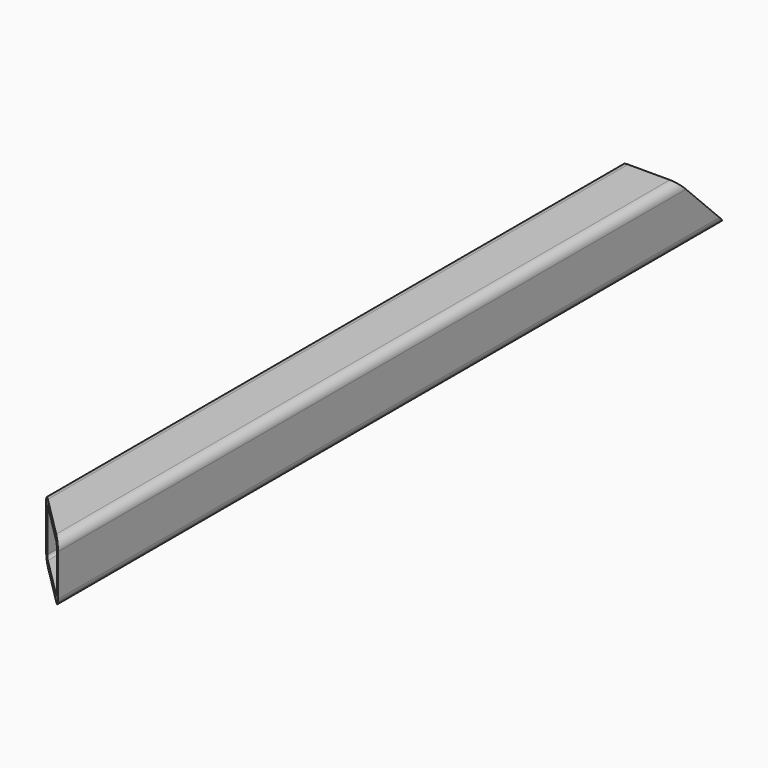
from build123d import *

# Parameters (mm, degrees)
F2_W     = 20
F2_H     = 20
F3_DEPTH = 140
F4_R     = 3
F5_T     = -2
F7_DEPTH = 20.001
F9_DEPTH = 25


with BuildPart() as f3:
    # F2 (on Front) → F3 (new body, symmetric)
    with BuildSketch(Plane.XZ):
        Rectangle(F2_W, F2_H)
    extrude(amount=F3_DEPTH, both=True)

    # F4
    f4_edges = [f3.edges().sort_by_distance(p)[0] for p in [
        (10, 0, 10),
        (-10, 0, 10),
        (10, 0, -10),
        (-10, 0, -10),
    ]]
    fillet(f4_edges, radius=F4_R)

    # F5
    f5_openings = [f3.faces().sort_by_distance(p)[0] for p in [
        (0, -140, 0),
        (0, 140, 0),
    ]]
    offset(amount=F5_T, openings=f5_openings)

    # F6 (on face) → F7 (cut, through all)
    with BuildSketch(Plane(origin=(-10, 0, 0), x_dir=(0, -1, 0), z_dir=(-1, 0, 0))):
        Polygon((-120, 10), (-140, 10), (-140, -10), align=None)
    extrude(amount=-F7_DEPTH, mode=Mode.SUBTRACT)

    # F8 (on face) → F9 (cut)
    with BuildSketch(Plane(origin=(0, 0, -10), x_dir=(1, 0, 0), z_dir=(0, 0, -1))):
        Polygon((10, 140), (-10, 140), (-10, 120), align=None)
    extrude(amount=-F9_DEPTH, mode=Mode.SUBTRACT)


solid = f3.part
